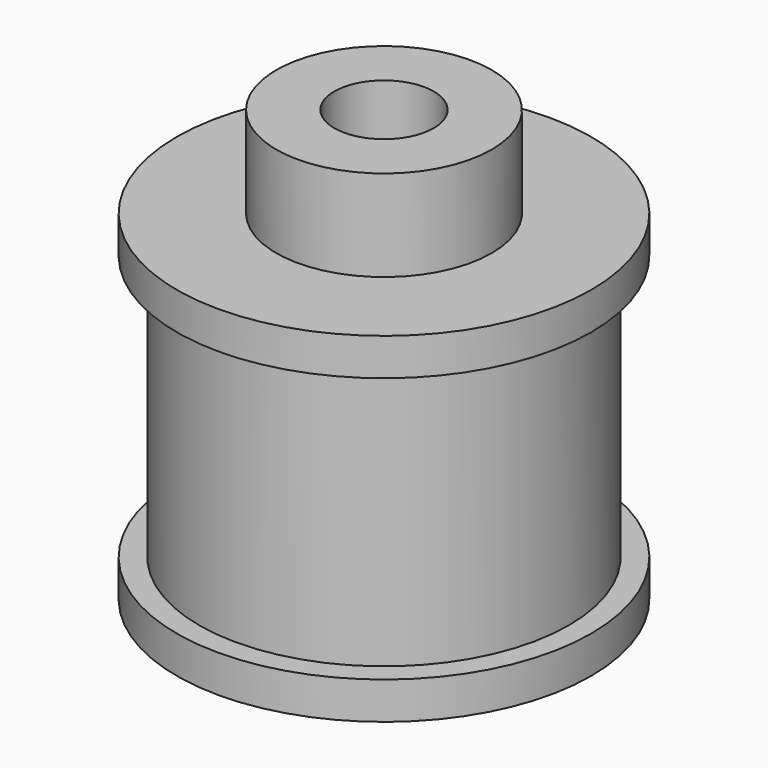
from build123d import *

# Parameters (mm, degrees)
F0_R     = 12.5
F0_R_2   = 11.15
F0_R_3   = 6.5
F0_R_4   = 3
F1_DEPTH = 10.25
F2_DEPTH = 8
F3_DEPTH = 15.75


with BuildPart() as f1:
    # F0 (on Top) → F1 (new body, symmetric)
    with BuildSketch(Plane.XY):
        Circle(F0_R)
        Circle(F0_R_2, mode=Mode.SUBTRACT)
        Circle(F0_R_2)
        Circle(F0_R_3, mode=Mode.SUBTRACT)
        Circle(F0_R_3)
        Circle(F0_R_4, mode=Mode.SUBTRACT)
    extrude(amount=F1_DEPTH, both=True)

    # F0 (on Top) → F2 (cut, symmetric)
    with BuildSketch(Plane.XY):
        Circle(F0_R)
        Circle(F0_R_2, mode=Mode.SUBTRACT)
    extrude(amount=F2_DEPTH, both=True, mode=Mode.SUBTRACT)

    # F0 (on Top) → F3 (join)
    with BuildSketch(Plane.XY):
        Circle(F0_R_3)
        Circle(F0_R_4, mode=Mode.SUBTRACT)
    extrude(amount=F3_DEPTH)


solid = f1.part
